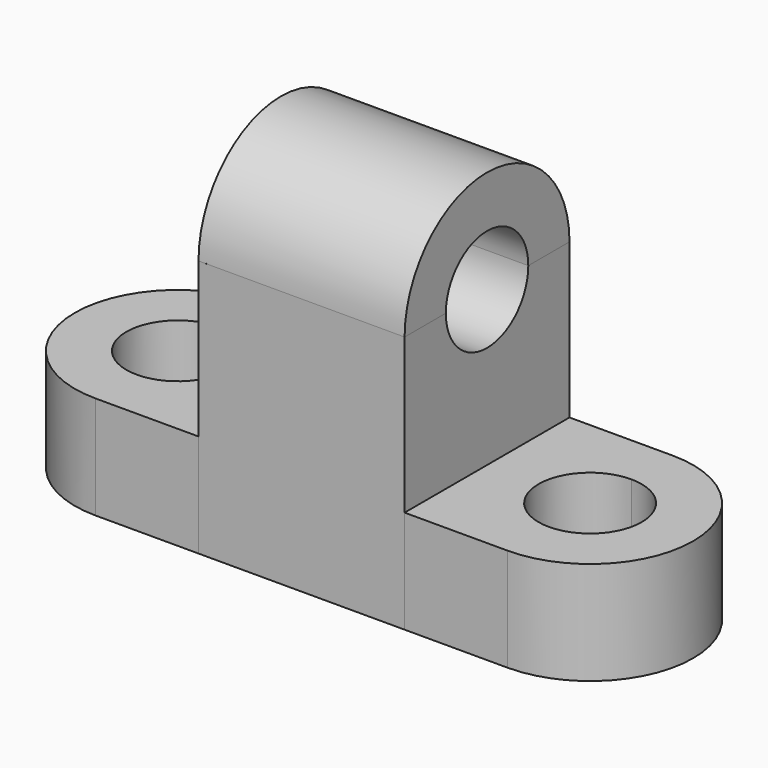
from build123d import *

# Parameters (mm, degrees)
F1_DEPTH = 12.7
F0_W     = 25.4
F0_H     = 25.4
F2_DEPTH = 31.75
F4_DEPTH = 25.4
F3_R     = 6.35
F5_DEPTH = 25.4


with BuildPart() as f1:
    # F0 (on Top) → F1 (new body)
    with BuildSketch(Plane.XY):
        with BuildLine():
            ThreePointArc((0, 25.4), (-12.7, 12.7), (0, 0))
            Line((0, 0), (0, 6.35))
            ThreePointArc((0, 6.35), (-6.35, 12.7), (0, 19.05))
            Line((0, 19.05), (0, 25.4))
        make_face()
        with BuildLine():
            Line((0, 6.35), (0, 0))
            Line((0, 0), (12.7, 0))
            Line((12.7, 0), (12.7, 25.4))
            Line((12.7, 25.4), (0, 25.4))
            Line((0, 25.4), (0, 19.05))
            ThreePointArc((0, 19.05), (4.4901280605, 17.1901280605), (6.35, 12.7))
            ThreePointArc((6.35, 12.7), (4.4901280605, 8.2098719395), (0, 6.35))
        make_face()
    extrude(amount=F1_DEPTH)


with BuildPart() as f1b:
    # F0 (on Top) → F1, piece 2 (new body)
    with BuildSketch(Plane.XY):
        with BuildLine():
            Line((38.1, 25.4), (38.1, 0))
            Line((38.1, 0), (50.8, 0))
            Line((50.8, 0), (50.8, 6.35))
            ThreePointArc((50.8, 6.35), (44.45, 12.7), (50.8, 19.05))
            Line((50.8, 19.05), (50.8, 25.4))
            Line((50.8, 25.4), (38.1, 25.4))
        make_face()
        with BuildLine():
            Line((50.8, 6.35), (50.8, 0))
            ThreePointArc((50.8, 0), (63.5, 12.7), (50.8, 25.4))
            Line((50.8, 25.4), (50.8, 19.05))
            ThreePointArc((50.8, 19.05), (55.2901280605, 17.1901280605), (57.15, 12.7))
            ThreePointArc((57.15, 12.7), (55.2901280605, 8.2098719395), (50.8, 6.35))
        make_face()
    extrude(amount=F1_DEPTH)


with BuildPart() as f2:
    # F0 (on Top) → F2 (new body)
    with BuildSketch(Plane.XY):
        with Locations((25.4, 12.7)):
            Rectangle(F0_W, F0_H)
    extrude(amount=F2_DEPTH)

    # F3 (on face) → F5 (cut)
    with BuildSketch(Plane.YZ.offset(38.1)):
        with Locations((12.7, 31.75)):
            Circle(F3_R)
    extrude(amount=-F5_DEPTH, mode=Mode.SUBTRACT)


with BuildPart() as f4:
    # F3 (on face) → F4 (new body)
    with BuildSketch(Plane.YZ.offset(38.1)):
        with BuildLine():
            Line((19.05, 31.75), (25.4, 31.75))
            ThreePointArc((25.4, 31.75), (12.7, 44.45), (0, 31.75))
            Line((0, 31.75), (6.35, 31.75))
            ThreePointArc((6.35, 31.75), (12.7, 38.1), (19.05, 31.75))
        make_face()
    extrude(amount=-F4_DEPTH)


solid = Compound([f1.part, f1b.part, f2.part, f4.part])
